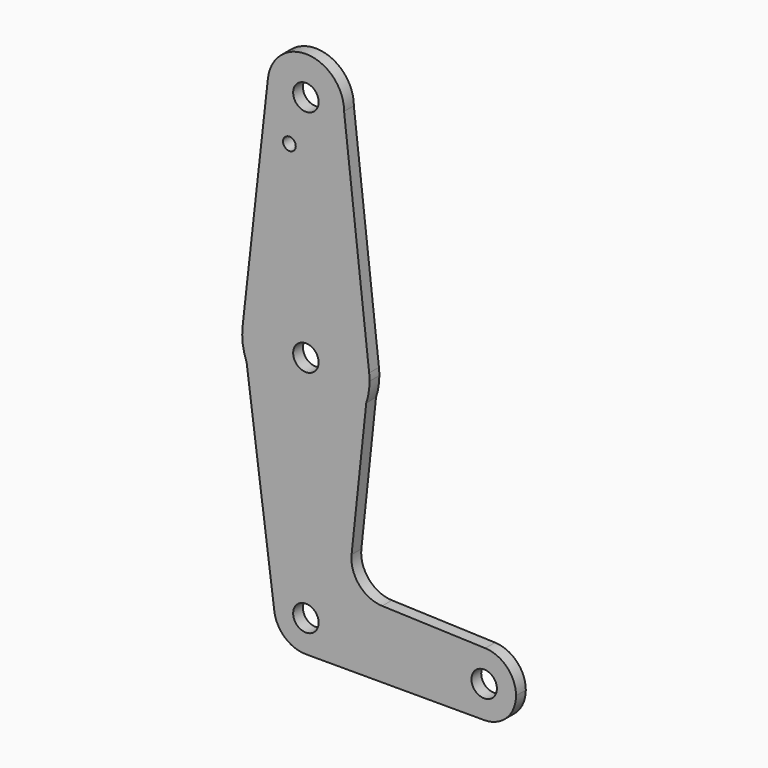
from build123d import *

# Parameters (mm, degrees)
F0_R     = 3.175
F0_R_2   = 1.5875
F1_DEPTH = 3.048


with BuildPart() as f1:
    # F0 (on Front) → F1 (new body)
    with BuildSketch(Plane.XZ):
        with BuildLine():
            ThreePointArc((-9.4660211047, 115.3583333333), (-0.529987725, 104.7897561539), (9.525, 114.3))
            ThreePointArc((9.525, 114.3), (0.529987725, 123.8102438461), (-9.4660211047, 115.3583333333))
        make_face()
        with Locations((0, 114.3)):
            Circle(F0_R, mode=Mode.SUBTRACT)
        with BuildLine():
            Line((15.7748262685, 58.9305845108), (9.525, 114.3))
            ThreePointArc((9.525, 114.3), (-0.529987725, 104.7897561539), (-9.4660211047, 115.3583333333))
            Line((-9.4660211047, 115.3583333333), (-15.7767018412, 58.9138888889))
            ThreePointArc((-15.7767018412, 58.9138888889), (-0.0084003209, 73.0249977775), (15.7748262685, 58.9305845108))
        make_face()
        with Locations((-4.1095972992, 102.7540937066)):
            Circle(F0_R_2, mode=Mode.SUBTRACT)
        with BuildLine():
            Line((15.0502584462, 52.0997182551), (15.7748262685, 58.9305845108))
            ThreePointArc((15.7748262685, 58.9305845108), (-0.0084003209, 73.0249977775), (-15.7767018412, 58.9138888889))
            Line((-15.7767018412, 58.9138888889), (-14.779833163, 51.3558515143))
            ThreePointArc((-14.779833163, 51.3558515143), (0.3957485192, 41.2799335821), (15.0502584462, 52.0997182551))
        make_face()
        with Locations((0, 57.15)):
            Circle(F0_R, mode=Mode.SUBTRACT)
        with BuildLine():
            ThreePointArc((15.875, 57.15), (15.8499367824, 58.0417000584), (15.7748262685, 58.9305845108))
            Line((15.7748262685, 58.9305845108), (15.0502584462, 52.0997182551))
            ThreePointArc((15.0502584462, 52.0997182551), (15.6674579596, 54.5914093561), (15.875, 57.15))
        make_face()
        with BuildLine():
            Line((-14.779833163, 51.3558515143), (-15.7767018412, 58.9138888889))
            ThreePointArc((-15.7767018412, 58.9138888889), (-15.7386924522, 55.0741423712), (-14.779833163, 51.3558515143))
        make_face()
        with BuildLine():
            Line((11.3940822454, 17.6311014222), (15.0502584462, 52.0997182551))
            ThreePointArc((15.0502584462, 52.0997182551), (0.3957485192, 41.2799335821), (-14.779833163, 51.3558515143))
            Line((-14.779833163, 51.3558515143), (-8.0062440309, 0))
            Line((-8.0062440309, 0), (-7.8693462261, -1.0379288144))
            ThreePointArc((-7.8693462261, -1.0379288144), (-0.5200820033, 7.92044323), (7.9375, 0))
            Line((7.9375, 0), (36.5125, 0))
            ThreePointArc((36.5125, 0), (38.9380197142, 5.7115654228), (44.7322113901, 7.9324815147))
            Line((44.7322113901, 7.9324815147), (19.0172677949, 8.8473339433))
            ThreePointArc((19.0172677949, 8.8473339433), (13.2956345494, 11.5815471045), (11.3940822454, 17.6311014222))
        make_face()
        with BuildLine():
            ThreePointArc((7.9375, 0), (-0.5200820033, 7.92044323), (-7.8693462261, -1.0379288144))
            ThreePointArc((-7.8693462261, -1.0379288144), (-5.2328456066, -5.9683526292), (0, -7.9375))
            ThreePointArc((0, -7.9375), (5.6126600757, -5.6126600757), (7.9375, 0))
        make_face()
        Circle(F0_R, mode=Mode.SUBTRACT)
        with BuildLine():
            ThreePointArc((52.3875, 0), (50.1615654228, 5.5119802858), (44.7322113901, 7.9324815147))
            ThreePointArc((44.7322113901, 7.9324815147), (38.9380197142, 5.7115654228), (36.5125, 0))
            ThreePointArc((36.5125, 0), (38.8373399243, -5.6126600757), (44.45, -7.9375))
            ThreePointArc((44.45, -7.9375), (50.0626600757, -5.6126600757), (52.3875, 0))
        make_face()
        with BuildLine():
            ThreePointArc((47.625, 0), (44.45, -3.175), (41.275, 0))
            ThreePointArc((41.275, 0), (44.45, 3.175), (47.625, 0))
        make_face(mode=Mode.SUBTRACT)
        with BuildLine():
            Line((36.5125, 0), (7.9375, 0))
            ThreePointArc((7.9375, 0), (5.6126600757, -5.6126600757), (0, -7.9375))
            Line((0, -7.9375), (44.45, -7.9375))
            ThreePointArc((44.45, -7.9375), (38.8373399243, -5.6126600757), (36.5125, 0))
        make_face()
    extrude(amount=F1_DEPTH)


solid = f1.part
